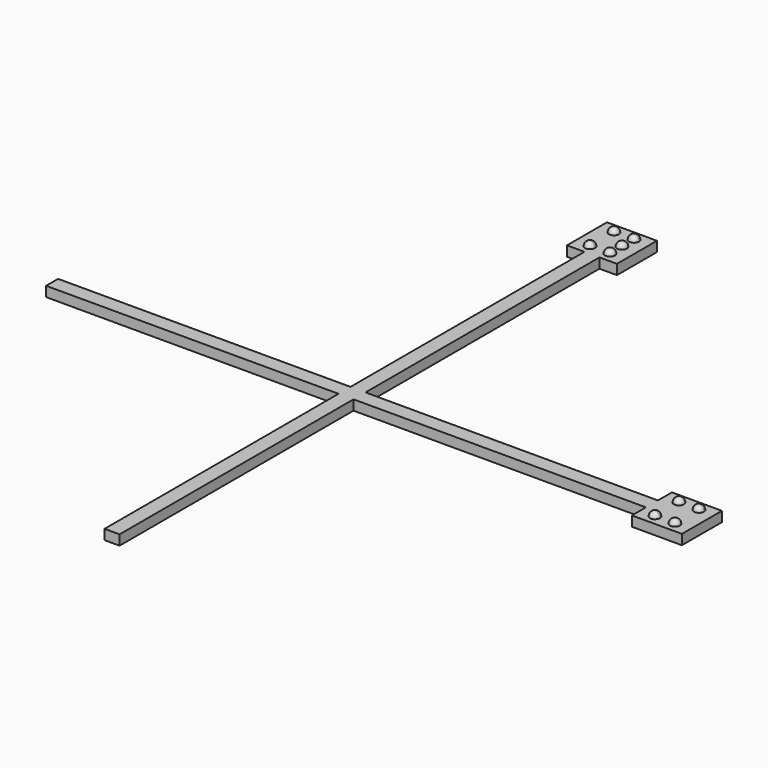
from build123d import *

# Parameters (mm, degrees)
F0_W     = 3
F0_H     = 58.5
F0_W_2   = 58.5
F0_H_2   = 3
F1_DEPTH = 1


with BuildPart() as f1:
    # F0 (on Top) → F1 (new body, symmetric)
    with BuildSketch(Plane.XY):
        Polygon((-5, 60), (-1.5, 60), (1.5, 60), (5, 60), (5, 70), (-5, 70), align=None)
        with BuildLine():
            ThreePointArc((-2, 61), (-3, 62), (-2, 63))
            ThreePointArc((-2, 63), (-1.2928932188, 62.7071067812), (-1, 62))
            ThreePointArc((-1, 62), (-1.2928932188, 61.2928932188), (-2, 61))
        make_face(mode=Mode.SUBTRACT)
        with BuildLine():
            ThreePointArc((2, 61), (1, 62), (2, 63))
            ThreePointArc((2, 63), (2.7071067812, 62.7071067812), (3, 62))
            ThreePointArc((3, 62), (2.7071067812, 61.2928932188), (2, 61))
        make_face(mode=Mode.SUBTRACT)
        with BuildLine():
            ThreePointArc((2, 64), (1, 65), (2, 66))
            ThreePointArc((2, 66), (2.7071067812, 65.7071067812), (3, 65))
            ThreePointArc((3, 65), (2.7071067812, 64.2928932188), (2, 64))
        make_face(mode=Mode.SUBTRACT)
        with BuildLine():
            ThreePointArc((-2, 69), (-1.2928932188, 68.7071067812), (-1, 68))
            ThreePointArc((-1, 68), (-1.2928932188, 67.2928932188), (-2, 67))
            ThreePointArc((-2, 67), (-3, 68), (-2, 69))
        make_face(mode=Mode.SUBTRACT)
        with BuildLine():
            ThreePointArc((2, 69), (2.7071067812, 68.7071067812), (3, 68))
            ThreePointArc((3, 68), (2.7071067812, 67.2928932188), (2, 67))
            ThreePointArc((2, 67), (1, 68), (2, 69))
        make_face(mode=Mode.SUBTRACT)
        with Locations((0, 30.75)):
            Rectangle(F0_W, F0_H)
        with Locations((30.75, 0)):
            Rectangle(F0_W_2, F0_H_2)
        with Locations((-30.75, 0)):
            Rectangle(F0_W_2, F0_H_2)
        Polygon((60, 5), (60, 1.5), (60, -1.5), (60, -5), (63.5, -5), (66.5, -5), (70, -5), (70, 5), align=None)
        with Locations((0, -30.75)):
            Rectangle(F0_W, F0_H)
        Rectangle(F0_W, F0_H_2)
        with BuildLine():
            ThreePointArc((-1, 62), (-1.2928932188, 62.7071067812), (-2, 63))
            Line((-2, 63), (-2, 61))
            ThreePointArc((-2, 61), (-1.2928932188, 61.2928932188), (-1, 62))
        make_face()
        with BuildLine():
            Line((-2, 61), (-2, 63))
            ThreePointArc((-2, 63), (-3, 62), (-2, 61))
        make_face()
        with BuildLine():
            ThreePointArc((3, 62), (2.7071067812, 62.7071067812), (2, 63))
            Line((2, 63), (2, 61))
            ThreePointArc((2, 61), (2.7071067812, 61.2928932188), (3, 62))
        make_face()
        with BuildLine():
            Line((2, 61), (2, 63))
            ThreePointArc((2, 63), (1, 62), (2, 61))
        make_face()
        with BuildLine():
            Line((-2, 67), (-2, 69))
            ThreePointArc((-2, 69), (-3, 68), (-2, 67))
        make_face()
        with BuildLine():
            ThreePointArc((-2, 67), (-1.2928932188, 67.2928932188), (-1, 68))
            ThreePointArc((-1, 68), (-1.2928932188, 68.7071067812), (-2, 69))
            Line((-2, 69), (-2, 67))
        make_face()
        with BuildLine():
            ThreePointArc((3, 65), (2.7071067812, 65.7071067812), (2, 66))
            Line((2, 66), (2, 64))
            ThreePointArc((2, 64), (2.7071067812, 64.2928932188), (3, 65))
        make_face()
        with BuildLine():
            Line((2, 64), (2, 66))
            ThreePointArc((2, 66), (1, 65), (2, 64))
        make_face()
        with BuildLine():
            Line((2, 67), (2, 69))
            ThreePointArc((2, 69), (1, 68), (2, 67))
        make_face()
        with BuildLine():
            ThreePointArc((2, 67), (2.7071067812, 67.2928932188), (3, 68))
            ThreePointArc((3, 68), (2.7071067812, 68.7071067812), (2, 69))
            Line((2, 69), (2, 67))
        make_face()
    extrude(amount=F1_DEPTH, both=True)

    # F2 (on face) → F3 (revolve)
    with BuildSketch(Plane.XY.offset(1)):
        with BuildLine():
            Line((-2.000000095, 67), (-2.000000095, 69))
            ThreePointArc((-2.000000095, 69), (-3.000000095, 68), (-2.000000095, 67))
        make_face()
        with BuildLine():
            ThreePointArc((-1.000000095, 62), (-1.2928933138, 62.7071067812), (-2.000000095, 63))
            Line((-2.000000095, 63), (-2.000000095, 61))
            ThreePointArc((-2.000000095, 61), (-1.2928933138, 61.2928932188), (-1.000000095, 62))
        make_face()
    revolve(axis=Axis((-2.000000095, 65, 1), (0, -1, 0)))

    # F2 (on face) → F4 (revolve)
    with BuildSketch(Plane.XY.offset(1)):
        with BuildLine():
            ThreePointArc((1.999999905, 67), (2.7071066862, 67.2928932188), (2.999999905, 68))
            ThreePointArc((2.999999905, 68), (2.7071066862, 68.7071067812), (1.999999905, 69))
            Line((1.999999905, 69), (1.999999905, 67))
        make_face()
        with BuildLine():
            Line((1.999999905, 64), (1.999999905, 66))
            ThreePointArc((1.999999905, 66), (0.999999905, 65), (1.999999905, 64))
        make_face()
        with BuildLine():
            Line((1.999999905, 61), (1.999999905, 63))
            ThreePointArc((1.999999905, 63), (0.999999905, 62), (1.999999905, 61))
        make_face()
    revolve(axis=Axis((1.999999905, 65, 1), (0, -1, 0)))

    # F2 (on face) → F5 (revolve)
    with BuildSketch(Plane.XY.offset(1)):
        with BuildLine():
            Line((63, 2), (63, 4))
            ThreePointArc((63, 4), (62, 3), (63, 2))
        make_face()
        with BuildLine():
            ThreePointArc((64, -3), (63.7071067812, -2.2928932188), (63, -2))
            Line((63, -2), (63, -4))
            ThreePointArc((63, -4), (63.7071067812, -3.7071067812), (64, -3))
        make_face()
    revolve(axis=Axis((63, 0, 1), (0, -1, 0)))

    # F2 (on face) → F6 (revolve)
    with BuildSketch(Plane.XY.offset(1)):
        with BuildLine():
            ThreePointArc((67, 2), (67.7071067812, 2.2928932188), (68, 3))
            ThreePointArc((68, 3), (67.7071067812, 3.7071067812), (67, 4))
            Line((67, 4), (67, 2))
        make_face()
        with BuildLine():
            Line((67, -4), (67, -2))
            ThreePointArc((67, -2), (66, -3), (67, -4))
        make_face()
    revolve(axis=Axis((67, 0, 1), (0, -1, 0)))


solid = f1.part
